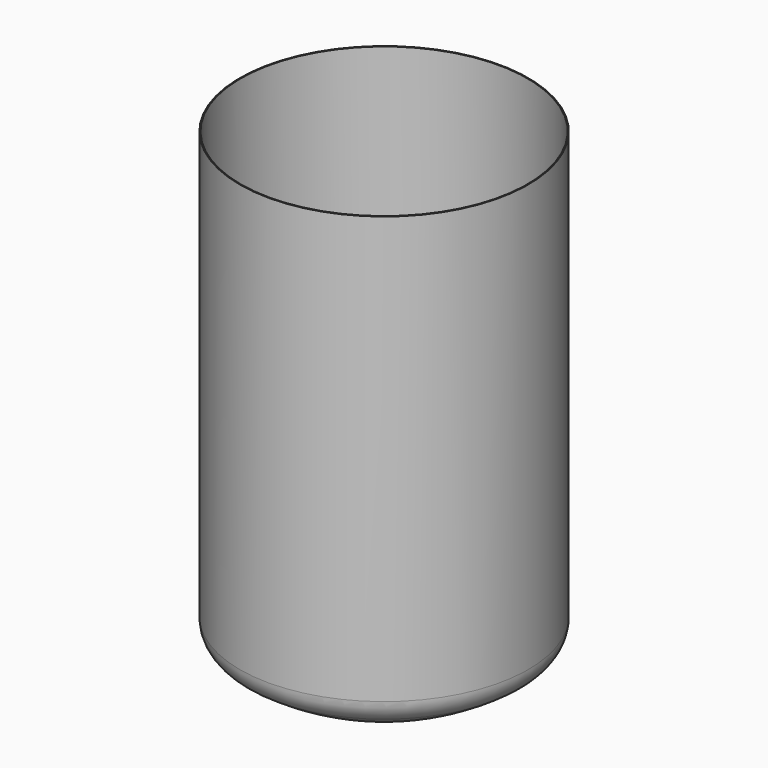
from build123d import *

# Parameters (mm, degrees)
F2_T = -1.5


with BuildPart() as f1:
    # F0 (on Right) → F1 (revolve)
    with BuildSketch(Plane.YZ):
        with BuildLine():
            ThreePointArc((-250, 110.172465), (-244.964773, 89.48873), (-230.985915, 73.433763))
            ThreePointArc((-230.985915, 73.433763), (-121.188913, 18.800253), (0, 0))
            Line((0, 0), (0, 850.172465))
            Line((0, 850.172465), (-250, 850.172465))
            Line((-250, 850.172465), (-250, 150.172465))
            Line((-250, 150.172465), (-250, 110.172465))
        make_face()
    revolve(axis=Axis((0, 0, -10.907047), (0, 0, -1)))

    # F2
    f2_openings = [f1.faces().sort_by_distance(p)[0] for p in [
        (0, 0, 850.172465),
    ]]
    offset(amount=F2_T, openings=f2_openings)


solid = f1.part
